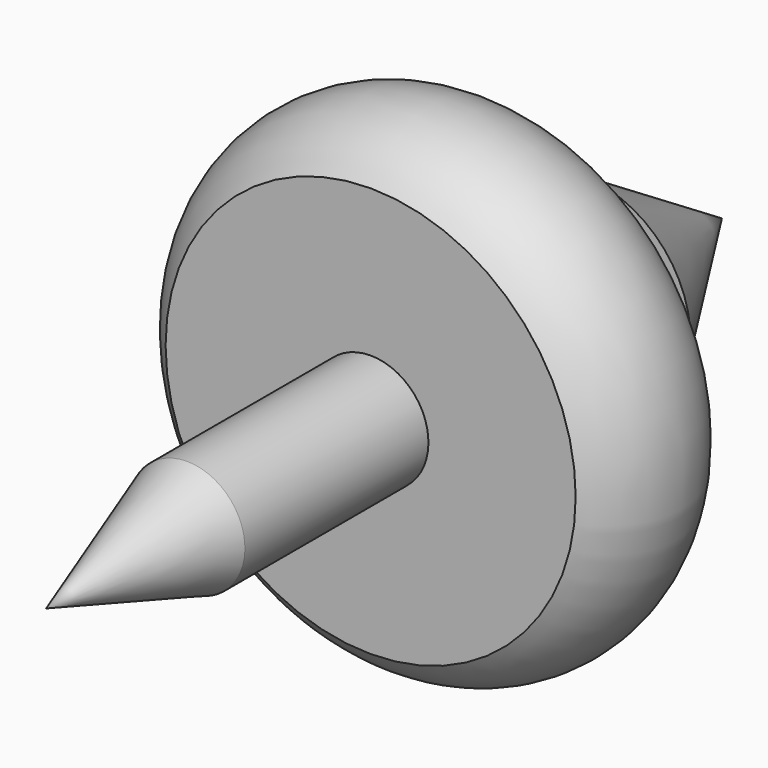
from build123d import *

# Parameters (mm, degrees)
F2_W = 54.9414514213
F2_H = 7.087636739


with BuildPart() as f1:
    # F0 (on Right) → F1 (revolve)
    with BuildSketch(Plane.YZ):
        with BuildLine():
            Line((-26.8122032285, 25.1458510756), (-26.8122032285, 0))
            Line((-26.8122032285, 0), (0, 0))
            Line((0, 0), (27.0384699106, 0))
            Line((27.0384699106, 0), (5.4959878325, 13.4000256658))
            Line((5.4959878325, 13.4000256658), (5.4959878325, 7.5829699636))
            Line((5.4959878325, 7.5829699636), (-4.9333125353, 7.7540650964))
            Line((-4.9333125353, 7.7540650964), (-4.9333125353, 18.4741187841))
            ThreePointArc((-4.9333125353, 18.4741187841), (-13.4024776279, 29.9108782654), (-26.8122032285, 25.1458510756))
        make_face()
    revolve(axis=Axis((0, -13.4061016142, 0), (0, 1, 0)))

    # F2 (on Right) → F3 (revolve)
    with BuildSketch(Plane.YZ):
        with Locations((-27.4707257106, 3.5438183695)):
            Rectangle(F2_W, F2_H)
        Polygon((-54.9414514213, 0), (-54.9414514213, 7.087636739), (-76.563516876, 0), align=None)
    revolve(axis=Axis((0, -27.4707257106, 0), (0, 1, 0)))


solid = f1.part
